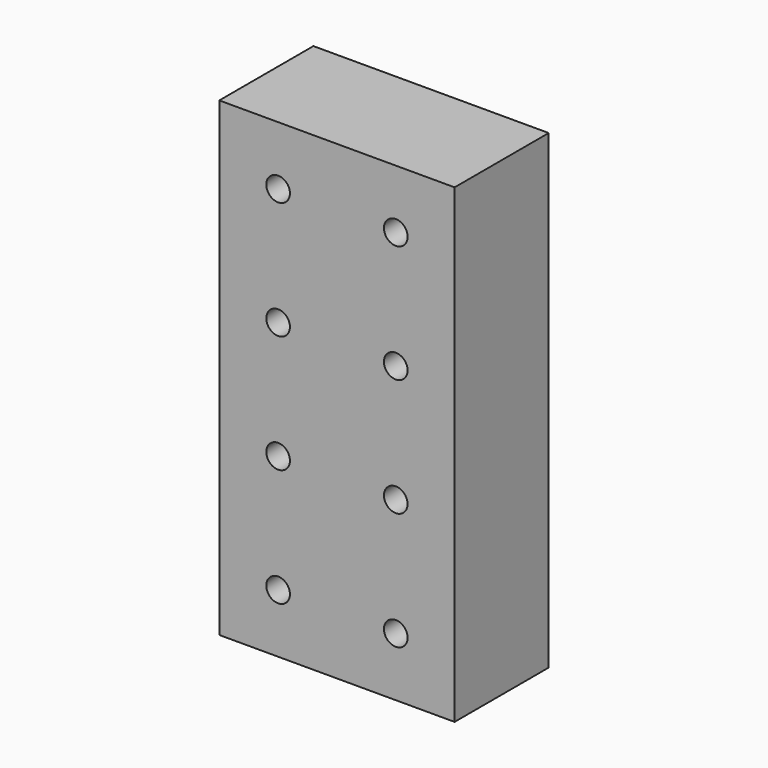
from build123d import *

# Parameters (mm, degrees)
F0_W     = 50.8
F0_H     = 101.6
F1_DEPTH = 25.4
F2_R     = 2.5527
F3_DEPTH = 25.4


with BuildPart() as f1:
    # F0 (on Front) → F1 (new body)
    with BuildSketch(Plane.XZ):
        with Locations((25.4, -50.8)):
            Rectangle(F0_W, F0_H)
    extrude(amount=F1_DEPTH)

    # F2 (on face) → F3 (cut)
    with BuildSketch(Plane.XZ.offset(25.4)):
        with Locations((12.7, -12.7)):
            Circle(F2_R)
        with Locations((12.7, -38.1)):
            Circle(F2_R)
        with Locations((12.7, -63.5)):
            Circle(F2_R)
        with Locations((12.7, -88.9)):
            Circle(F2_R)
        with Locations((38.1, -12.7)):
            Circle(F2_R)
        with Locations((38.1, -38.1)):
            Circle(F2_R)
        with Locations((38.1, -63.5)):
            Circle(F2_R)
        with Locations((38.1, -88.9)):
            Circle(F2_R)
        with Locations((63.5, -12.7)):
            Circle(F2_R)
        with Locations((63.5, -38.1)):
            Circle(F2_R)
        with Locations((63.5, -63.5)):
            Circle(F2_R)
        with Locations((63.5, -88.9)):
            Circle(F2_R)
    extrude(amount=-F3_DEPTH, mode=Mode.SUBTRACT)


solid = f1.part
